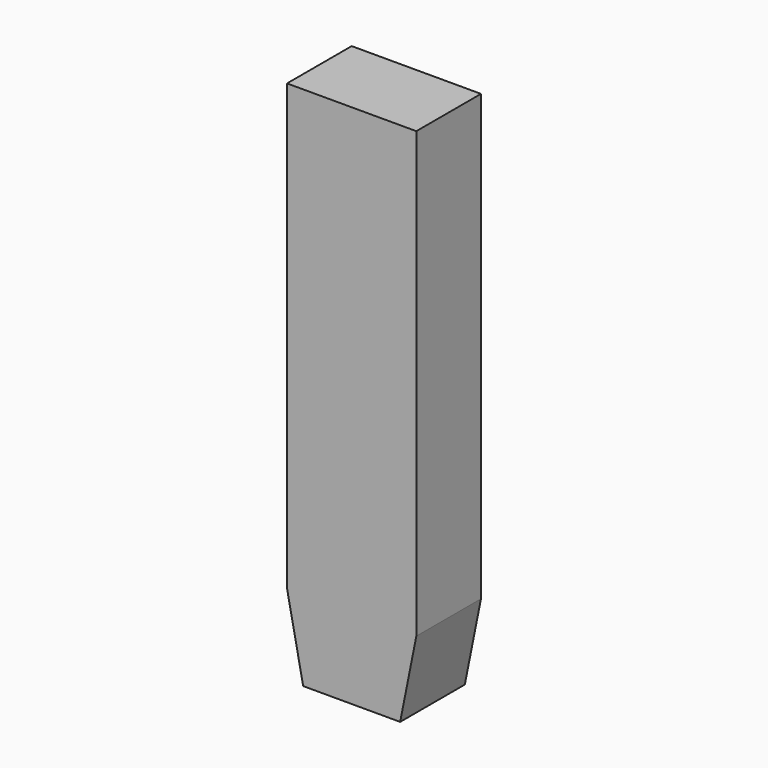
from build123d import *

# Parameters (mm, degrees)
BOX009_W        = 0.8
BOX009_H        = 0.5
BOX009_DEPTH    = 3.25
CHAMFER_1_SIZE2 = 0.1
CHAMFER_1_SIZE  = 0.5
CHAMFER_2_SIZE2 = 0.1
CHAMFER_2_SIZE  = 0.5


with BuildPart() as part:
    # Box009 → Box009 (new body)
    with BuildSketch(Plane(origin=(0.82, 2.6, -2.9), x_dir=(1, 0, 0), z_dir=(0, 0, 1))):
        with Locations((0.4, 0.25)):
            Rectangle(BOX009_W, BOX009_H)
    extrude(amount=BOX009_DEPTH)

    # Chamfer 1
    chamfer_1_edges = [part.edges().sort_by_distance(p)[0] for p in [
        (1.62, 2.85, -2.9),
    ]]
    chamfer_1_side = part.faces().sort_by_distance((1.62, 2.85, -1.275))[0]
    chamfer(chamfer_1_edges, length=CHAMFER_1_SIZE, length2=CHAMFER_1_SIZE2, reference=chamfer_1_side)

    # Chamfer 2
    chamfer_2_edges = [part.edges().sort_by_distance(p)[0] for p in [
        (0.82, 2.85, -2.9),
    ]]
    chamfer_2_side = part.faces().sort_by_distance((0.82, 2.85, -1.275))[0]
    chamfer(chamfer_2_edges, length=CHAMFER_2_SIZE, length2=CHAMFER_2_SIZE2, reference=chamfer_2_side)


solid = part.part
